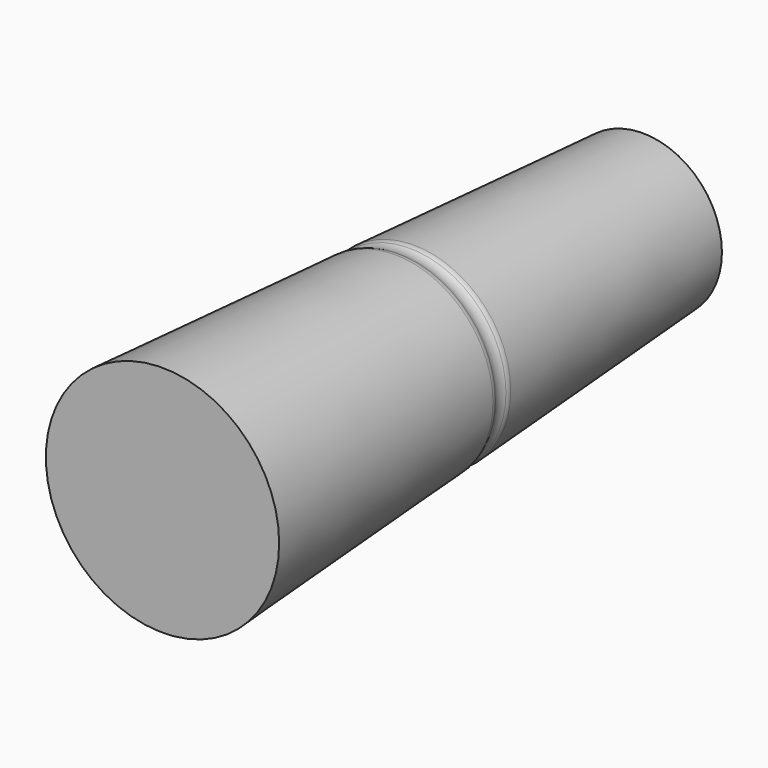
from build123d import *


with BuildPart() as f1:
    # F0 (on Top) → F1 (revolve)
    with BuildSketch(Plane.XY):
        with BuildLine():
            Line((-1.575186, 37.202982), (-1.575186, 40))
            Line((-1.575186, 40), (-7.5, 40))
            Line((-7.5, 40), (-7.5, -40))
            Line((-7.5, -40), (5.914354, -40))
            Line((5.914354, -40), (7.5, -40))
            Line((7.5, -40), (5.169893, -2.71829))
            ThreePointArc((5.169893, -2.71829), (5.113796, -2.395239), (4.988847, -2.092095))
            ThreePointArc((4.988847, -2.092095), (4.728261, -1.190791), (4.874594, -0.264054))
            ThreePointArc((4.874594, -0.264054), (4.960826, 0.052289), (4.976262, 0.379811))
            Line((4.976262, 0.379811), (2.674814, 37.202982))
            Line((2.674814, 37.202982), (-1.575186, 37.202982))
        make_face()
    revolve(axis=Axis((-7.5, 0, 0), (0, -1, 0)))


solid = f1.part
